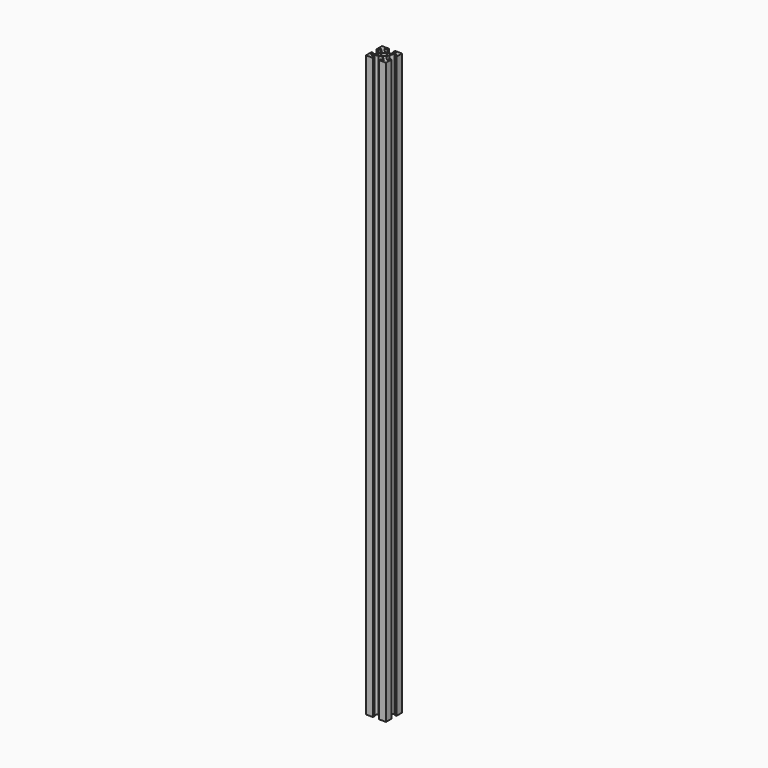
from build123d import *

# Parameters (mm, degrees)
SKETCH_W        = 20
SKETCH_H        = 20
PAD_DEPTH       = 580
SKETCH001_R     = 2.5
POCKET_DEPTH    = 580.001
POCKET001_DEPTH = 580.001


with BuildPart() as part:
    # Sketch → Pad (new body)
    with BuildSketch(Plane.XY):
        Rectangle(SKETCH_W, SKETCH_H)
    extrude(amount=PAD_DEPTH)

    # Sketch001 (on Face6 of Pad) → Pocket (cut, through all)
    with BuildSketch(Plane.XY.offset(580)):
        Circle(SKETCH001_R)
        Polygon((-3.1, 10), (3.1, 10), (3.1, 8), (6.232233, 8), (2.132233, 3.9), (-2.132233, 3.9), (-6.232233, 8), (-3.1, 8), align=None)
        Polygon((-3.1, -8), (-6.232233, -8), (-2.132233, -3.9), (2.132233, -3.9), (6.232233, -8), (3.1, -8), (3.1, -10), (-3.1, -10), align=None)
    extrude(amount=-POCKET_DEPTH, mode=Mode.SUBTRACT)

    # Sketch002 (on Face2 of Pocket) → Pocket001 (cut, through all)
    with BuildSketch(Plane(origin=(0, 0, 0), x_dir=(1, 0, 0), z_dir=(0, 0, -1))):
        Polygon((-10, -3.1), (-8, -3.1), (-8, -6.232233), (-3.9, -2.132233), (-3.9, 2.132233), (-8, 6.232233), (-8, 3.1), (-10, 3.1), align=None)
        Polygon((3.9, -2.132233), (3.9, 2.132233), (8, 6.232233), (8, 3.1), (10, 3.1), (10, -3.1), (8, -3.1), (8, -6.232233), align=None)
    extrude(amount=-POCKET001_DEPTH, mode=Mode.SUBTRACT)


solid = part.part
